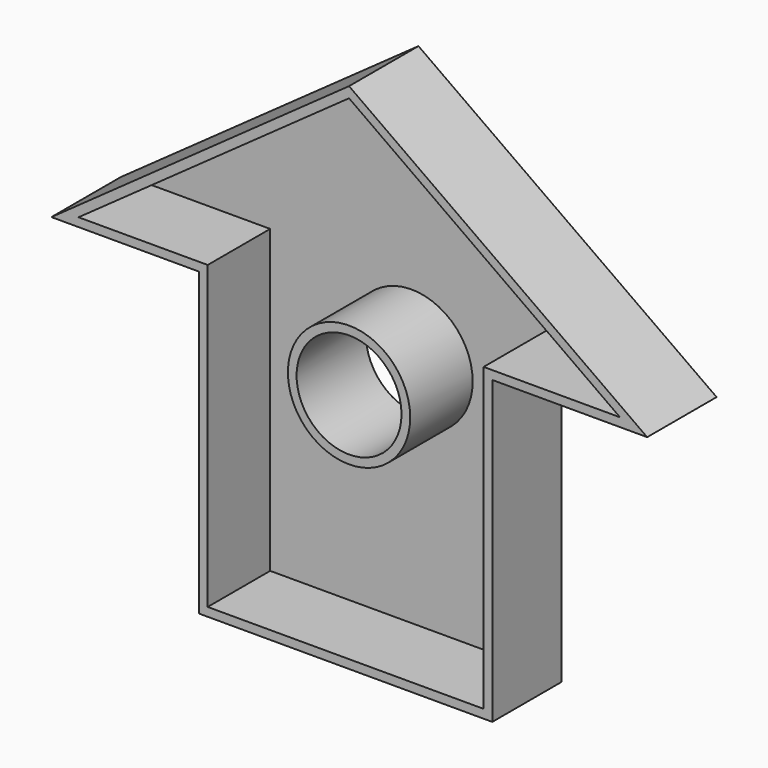
from build123d import *

# Parameters (mm, degrees)
F0_W     = 84.4860821962
F0_H     = 86.7241285741
F0_R     = 15.1136325876
F1_DEPTH = 25
F2_T     = -2.5


with BuildPart() as f1:
    # F0 (on Front) → F1 (new body)
    with BuildSketch(Plane.XZ):
        with Locations((-0.9791441262, -0.6993878633)):
            Rectangle(F0_W, F0_H)
        with Locations((0, 25.4446212202)):
            Circle(F0_R, mode=Mode.SUBTRACT)
        Polygon((-43.2221852243, 42.6626764238), (41.2638969719, 42.6626764238), (85.8816504478, 42.6626764238), (0, 103.7538051605), (-85.744984448, 42.6626764238), align=None)
    extrude(amount=F1_DEPTH)

    # F2
    f2_openings = [f1.faces().sort_by_distance(p)[0] for p in [
        (-0.979144, -25, -41.79639),
    ]]
    offset(amount=F2_T, openings=f2_openings, kind=Kind.INTERSECTION)


solid = f1.part
